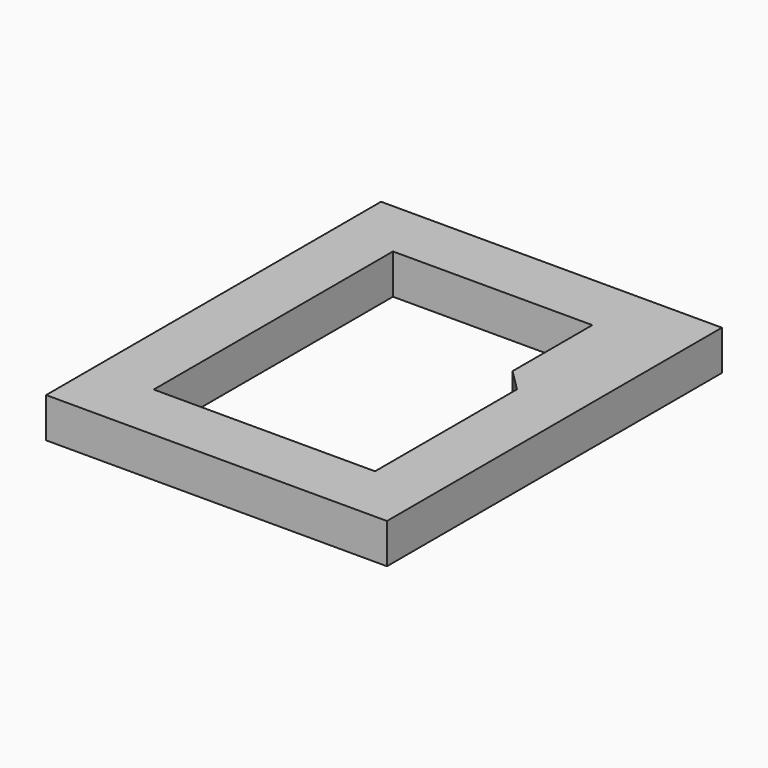
from build123d import *

# Parameters (mm, degrees)
SKETCH_W  = 17.1
SKETCH_H  = 21
PAD_DEPTH = 2


with BuildPart() as part:
    # Sketch → Pad (new body)
    with BuildSketch(Plane.XY):
        with Locations((5.55, 7.5)):
            Rectangle(SKETCH_W, SKETCH_H)
        Polygon((0, 15), (10, 15), (10, 10), (11.1, 8.9), (11.1, 0), (0, 0), align=None, mode=Mode.SUBTRACT)
    extrude(amount=PAD_DEPTH)


solid = part.part
